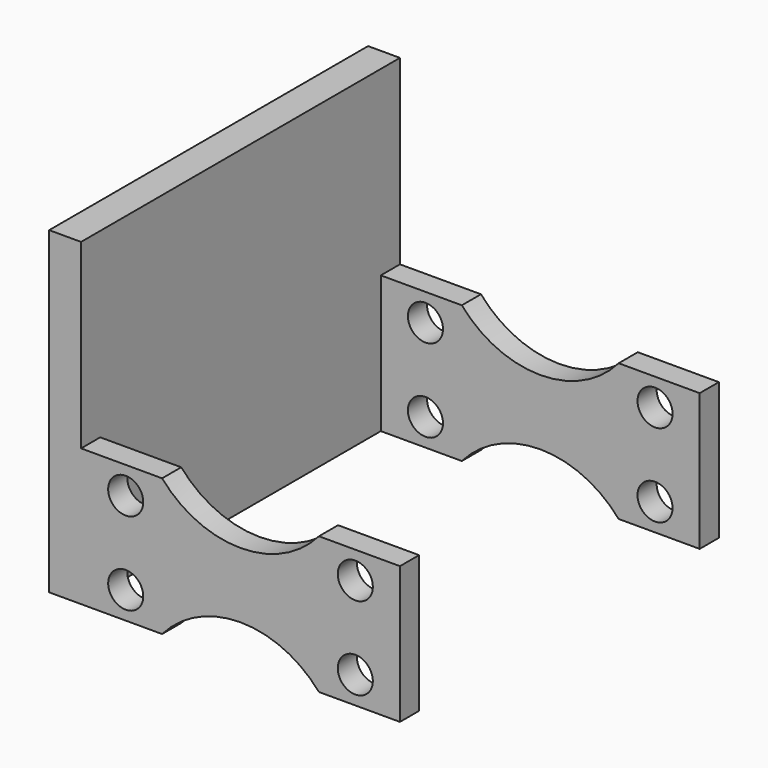
from build123d import *

# Parameters (mm, degrees)
F0_W     = 20
F0_H     = 8.6
F1_DEPTH = 1.5
F2_R     = 1.1
F3_DEPTH = 1.5
F4_W     = 2
F4_H     = 20
F5_DEPTH = 12.5


with BuildPart() as f1:
    # F0 (on Front) → F1 (new body)
    with BuildSketch(Plane.XZ):
        with Locations((10, 4.3)):
            Rectangle(F0_W, F0_H)
    extrude(amount=F1_DEPTH)

    # F2 (on face) → F3 (cut, through all)
    with BuildSketch(Plane.XZ.offset(1.5)):
        with Locations((2.8, 6.9)):
            Circle(F2_R)
        with Locations((17.2, 6.9)):
            Circle(F2_R)
        with Locations((2.8, 1.7)):
            Circle(F2_R)
        with Locations((17.2, 1.7)):
            Circle(F2_R)
        with BuildLine():
            Line((14.918079, 8.6), (5.081921, 8.6))
            ThreePointArc((5.081921, 8.6), (10, 6.35), (14.918079, 8.6))
        make_face()
        with BuildLine():
            ThreePointArc((14.918079, 0), (10, 2.25), (5.081921, 0))
            Line((5.081921, 0), (14.918079, 0))
        make_face()
    extrude(amount=-F3_DEPTH, mode=Mode.SUBTRACT)

    # F4 (on face) → F5 (join)
    with BuildSketch(Plane.XZ.offset(1.5)):
        with Locations((-1, 10)):
            Rectangle(F4_W, F4_H)
    extrude(amount=-F5_DEPTH)

    # F7: F1 across plane


with BuildPart() as f1_1:
    add(f1.part)
    add(f1.part.mirror(Plane.XZ.offset(-11)))


solid = f1_1.part
